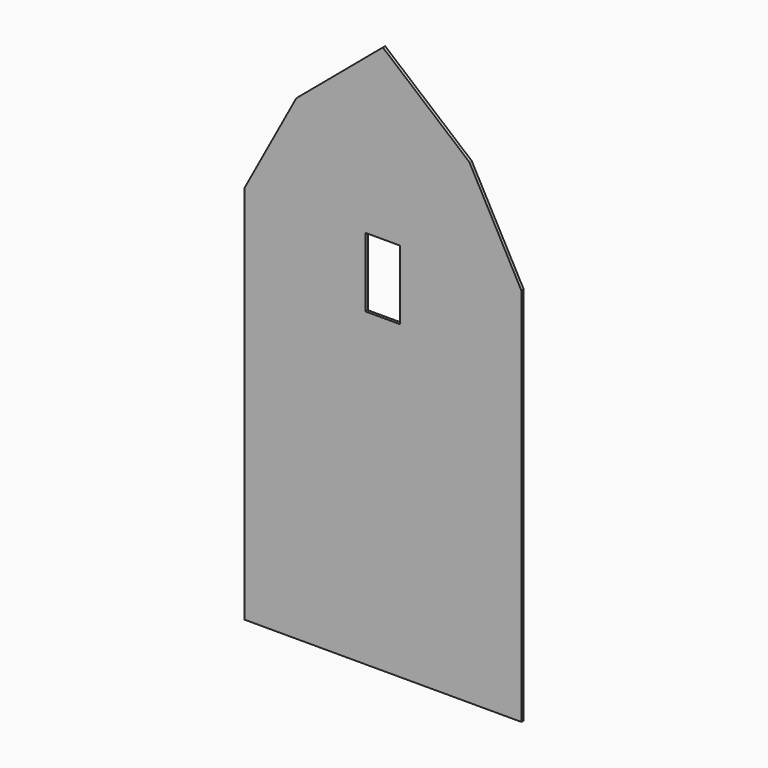
from build123d import *

# Parameters (mm, degrees)
F1_DEPTH = 1


with BuildPart() as f1:
    # F0 (on Front) → F1 (new body)
    with BuildSketch(Plane.XZ):
        Polygon((118.214478, -15.002092), (118.214478, 7.747908), (118.214478, 40.497908), (118.214478, 113.497908), (118.214478, 116.697908), (100.214478, 149.999575), (70.214478, 175.247908), (40.214478, 149.999575), (22.214478, 116.697908), (22.214478, 7.747908), (22.214478, -15.002092), align=None)
        Polygon((64.214478, 116.697908), (70.214478, 116.697908), (76.214478, 116.697908), (76.214478, 92.697908), (64.214478, 92.697908), align=None, mode=Mode.SUBTRACT)
    extrude(amount=F1_DEPTH)


solid = f1.part
